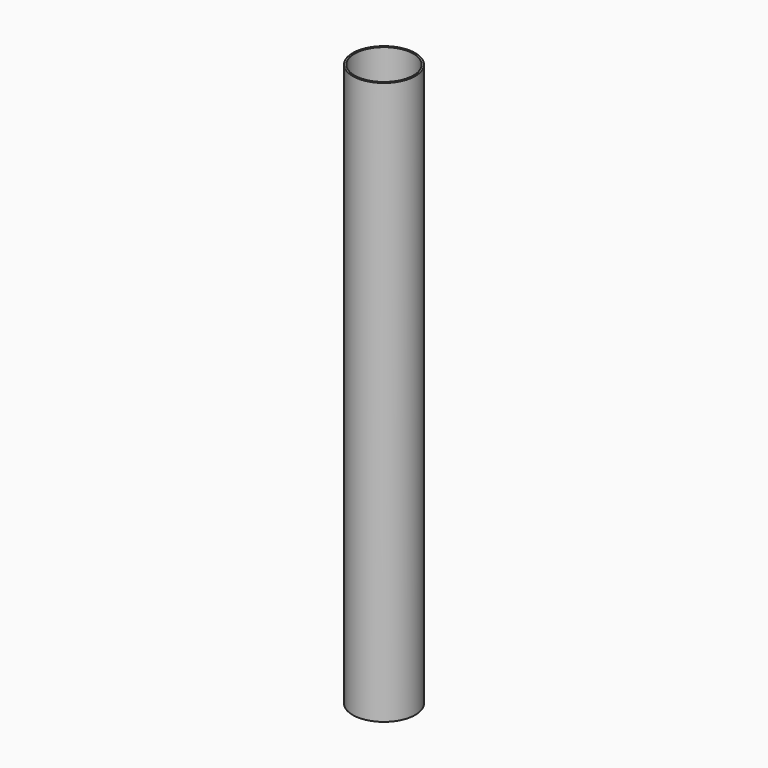
from build123d import *

# Parameters (mm, degrees)
F3_D = 47.8536


with BuildPart() as f1:
    # F0 (on Front) → F1 (revolve)
    with BuildSketch(Plane.XZ):
        Polygon((0, 0), (0, 228.386702), (-25.4, 228.386702), (-25.4, -228.386702), (0, -228.386702), align=None)
    revolve(axis=Axis((0, 0, -114.193351), (0, 0, -1)))

    # F3 (through all)
    with Locations(Plane.XY.offset(228.386702)):
        with Locations((0, 0)):
            Hole(F3_D / 2)


solid = f1.part
